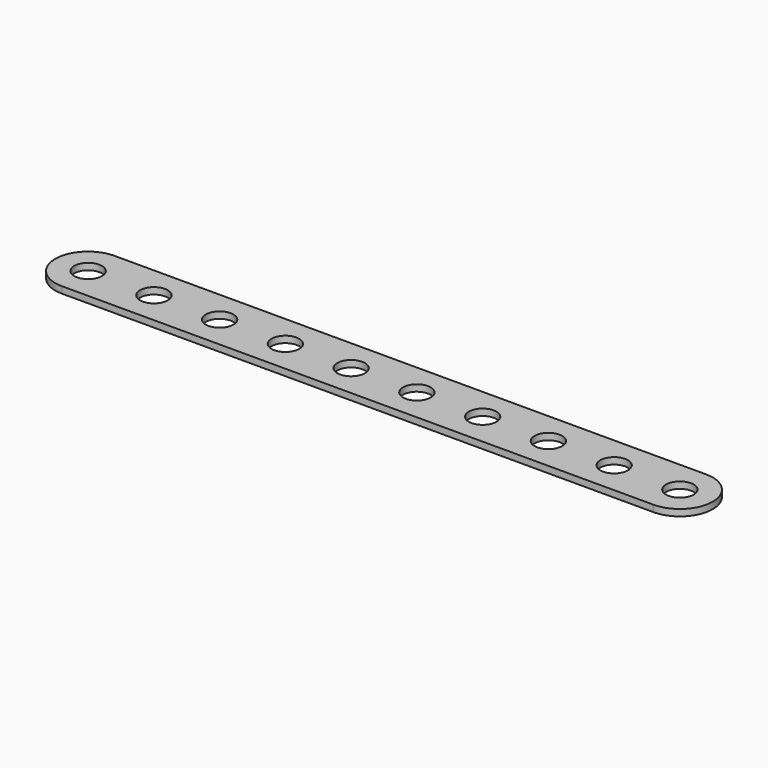
from build123d import *

# Parameters (mm, degrees)
SKETCH_R  = 2.1
PAD_DEPTH = 1


with BuildPart() as part:
    # Sketch → Pad (new body)
    with BuildSketch(Plane.XY):
        with BuildLine():
            ThreePointArc((0, 5), (-5, 0), (0, -5))
            Line((0, -5), (90, -5))
            ThreePointArc((90, -5), (95, 0), (90, 5))
            Line((0, 5), (90, 5))
        make_face()
        Circle(SKETCH_R, mode=Mode.SUBTRACT)
        with Locations((10, 0)):
            Circle(SKETCH_R, mode=Mode.SUBTRACT)
        with Locations((20, 0)):
            Circle(SKETCH_R, mode=Mode.SUBTRACT)
        with Locations((30, 0)):
            Circle(SKETCH_R, mode=Mode.SUBTRACT)
        with Locations((40, 0)):
            Circle(SKETCH_R, mode=Mode.SUBTRACT)
        with Locations((50, 0)):
            Circle(SKETCH_R, mode=Mode.SUBTRACT)
        with Locations((60, 0)):
            Circle(SKETCH_R, mode=Mode.SUBTRACT)
        with Locations((70, 0)):
            Circle(SKETCH_R, mode=Mode.SUBTRACT)
        with Locations((80, 0)):
            Circle(SKETCH_R, mode=Mode.SUBTRACT)
        with Locations((90, 0)):
            Circle(SKETCH_R, mode=Mode.SUBTRACT)
    extrude(amount=PAD_DEPTH)


solid = part.part
